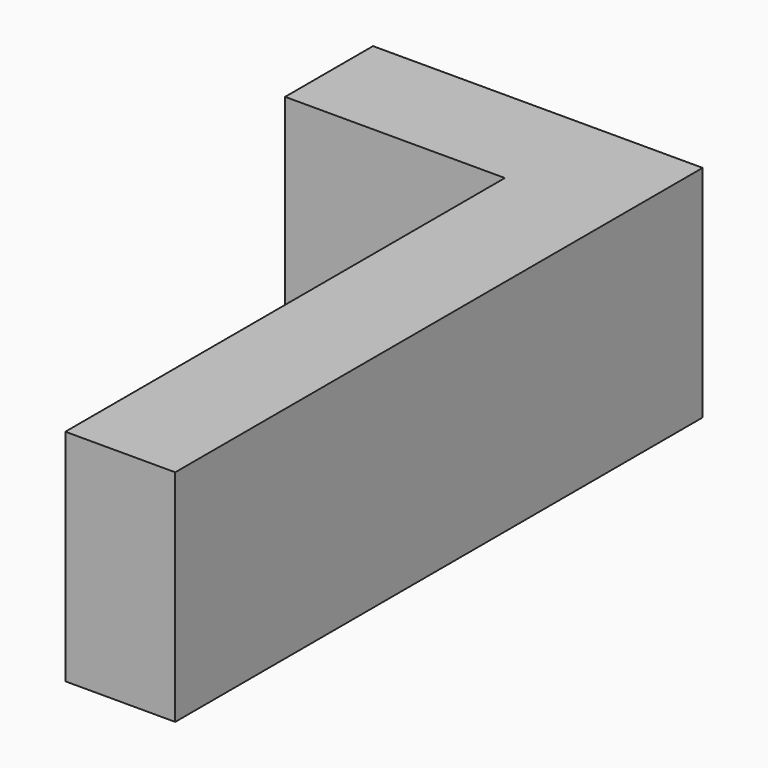
from build123d import *

# Parameters (mm, degrees)
F1_DEPTH = 50.8
F3_DEPTH = 17.272


with BuildPart() as f1:
    # F0 (on Top) → F1 (new body)
    with BuildSketch(Plane.XY):
        Polygon((0, 79.921412), (0, -47.078588), (25.4, -47.078588), (25.4, 105.321412), (-50.8, 105.321412), (-50.8, 79.921412), align=None)
    extrude(amount=F1_DEPTH)

    # F2 (on Top) → F3 (join)
    with BuildSketch(Plane.XY):
        Polygon((0, 79.757147), (-22.662191, 79.757147), (0, 39.217368), align=None)
    extrude(amount=F3_DEPTH)


solid = f1.part
